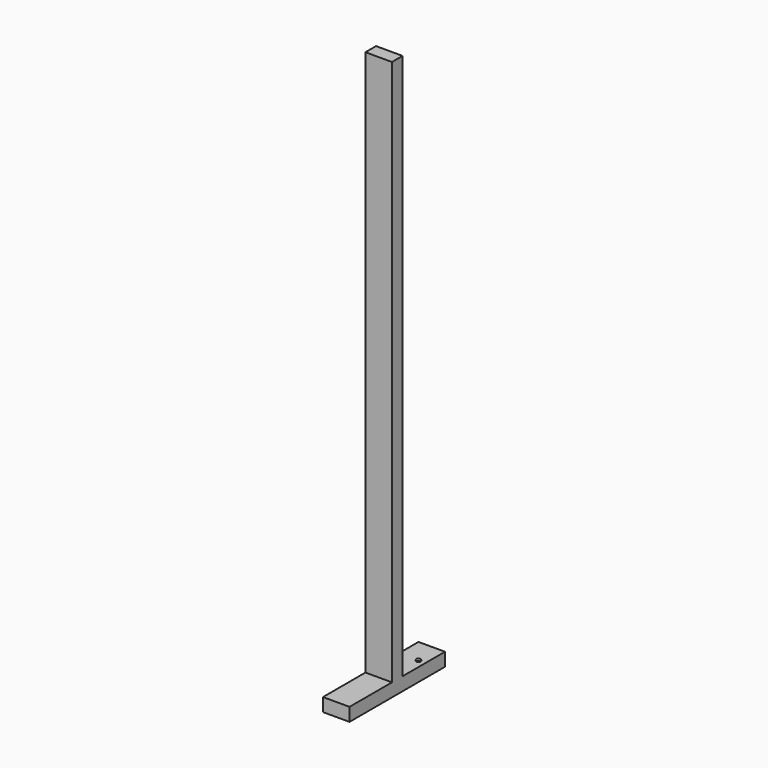
from build123d import *

# Parameters (mm, degrees)
F0_W          = 76.2
F0_H          = 38.1
F1_DEPTH      = 1568.45
F2_W          = 76.2
F2_H          = 38.1
F3_DEPTH      = 38.1
F4_W          = 76.2
F4_H          = 38.1
F5_DEPTH      = 152.4
F5_DEPTH_BACK = 190.5
F6_R          = 6.35
F7_DEPTH      = 2.54


with BuildPart() as f1:
    # F0 (on Top) → F1 (new body)
    with BuildSketch(Plane.XY):
        Rectangle(F0_W, F0_H)
    extrude(amount=F1_DEPTH)

    # F2 (on face) → F3 (join)
    with BuildSketch(Plane(origin=(0, 0, 0), x_dir=(1, 0, 0), z_dir=(0, 0, -1))):
        Rectangle(F2_W, F2_H)
    extrude(amount=F3_DEPTH)

    # F4 (on face) → F5 (join, two sides)
    with BuildSketch(Plane.XZ.offset(19.05)) as f5_sk:
        with Locations((0, -19.05)):
            Rectangle(F4_W, F4_H)
    extrude(amount=F5_DEPTH)
    extrude(f5_sk.sketch, amount=-F5_DEPTH_BACK)

    # F6 (on face) → F7 (join)
    with BuildSketch(Plane.XY):
        with Locations((19.05, 99.86645)):
            Circle(F6_R)
    extrude(amount=F7_DEPTH)


solid = f1.part
